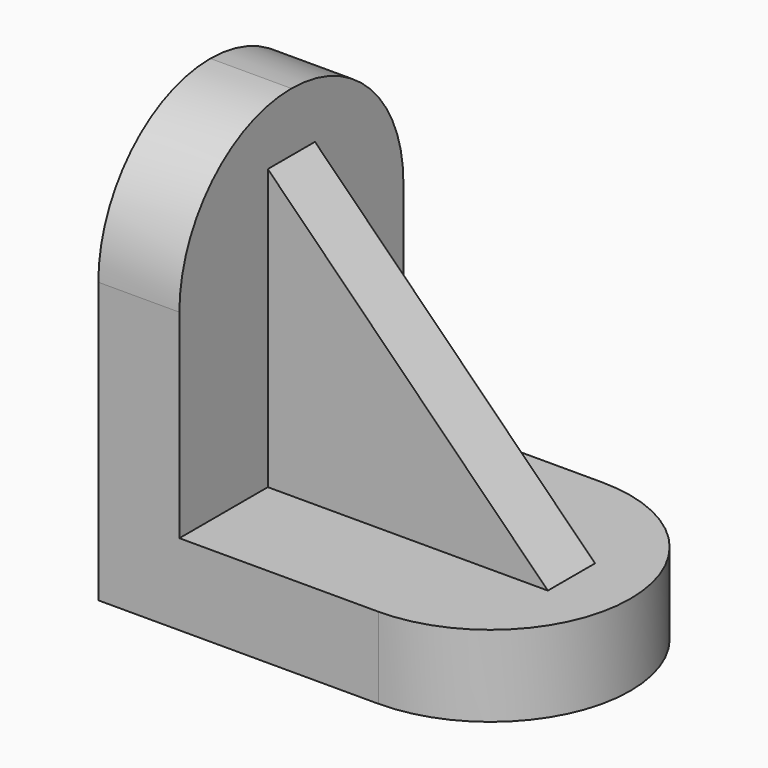
from build123d import *

# Parameters (mm, degrees)
F1_DEPTH = 110
F2_W     = 110
F2_H     = 380
F3_DEPTH = 460
F5_DEPTH = 110.001
F7_DEPTH = 380
F9_DEPTH = 230.001


with BuildPart() as f1:
    # F0 (on Top) → F1 (new body)
    with BuildSketch(Plane.XY):
        with BuildLine():
            Line((0, 380), (0, 0))
            Line((0, 0), (380, 0))
            ThreePointArc((380, 0), (570, 190), (380, 380))
            Line((380, 380), (0, 380))
        make_face()
    extrude(amount=F1_DEPTH)

    # F2 (on face) → F3 (join)
    with BuildSketch(Plane.XY.offset(110)):
        with Locations((55, 190)):
            Rectangle(F2_W, F2_H)
    extrude(amount=F3_DEPTH)

    # F4 (on face) → F5 (cut, through all)
    with BuildSketch(Plane.YZ.offset(110)):
        with BuildLine():
            Line((380, 570), (190, 570))
            ThreePointArc((190, 570), (324.350288, 514.350288), (380, 380))
            Line((380, 380), (380, 570))
        make_face()
        with BuildLine():
            Line((0, 570), (0, 380))
            ThreePointArc((0, 380), (55.649712, 514.350288), (190, 570))
            Line((190, 570), (0, 570))
        make_face()
    extrude(amount=-F5_DEPTH, mode=Mode.SUBTRACT)

    # F6 (on face) → F7 (join)
    with BuildSketch(Plane.YZ.offset(110)):
        Polygon((230, 490), (190, 490), (150, 490), (150, 110), (230, 110), align=None)
    extrude(amount=F7_DEPTH)

    # F8 (on face) → F9 (cut, through all)
    with BuildSketch(Plane.XZ.offset(-150)):
        Polygon((490, 490), (110, 490), (490, 110), align=None)
    extrude(amount=-F9_DEPTH, mode=Mode.SUBTRACT)


solid = f1.part
